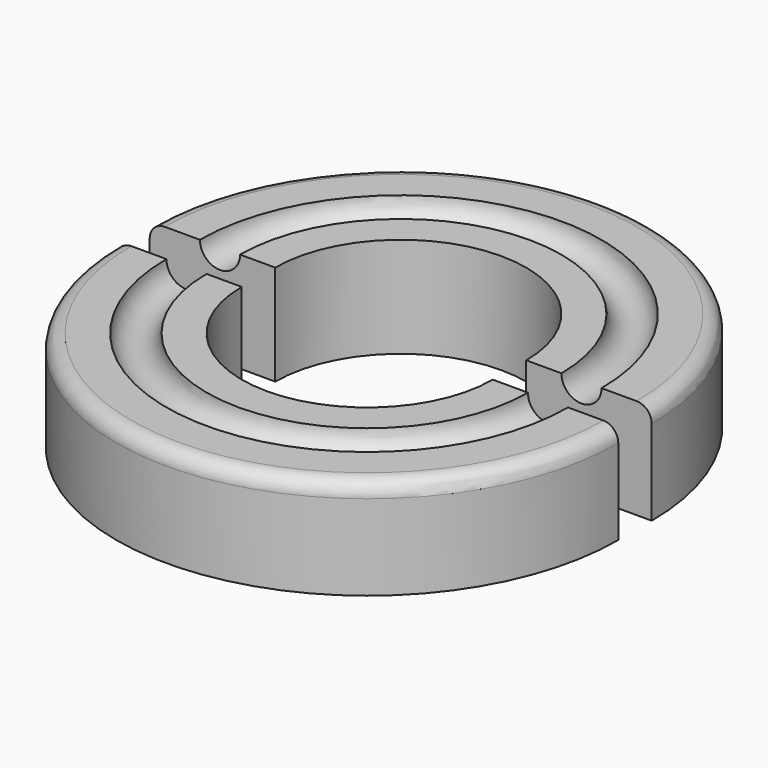
from build123d import *

# Parameters (mm, degrees)
F1_ANGLE = 180


with BuildPart() as f1:
    # F0 (on Front) → F1 (revolve)
    with BuildSketch(Plane.XZ):
        with BuildLine():
            Line((-60, 20.4), (-60, 0))
            Line((-60, 0), (-30, 0))
            Line((-30, 0), (-30, 24))
            Line((-30, 24), (-38.4, 24))
            ThreePointArc((-38.4, 24), (-43.2, 19.2), (-48, 24))
            Line((-48, 24), (-56.4, 24))
            ThreePointArc((-56.4, 24), (-58.945584, 22.945584), (-60, 20.4))
        make_face()
    revolve(axis=Axis((0, 0, 18.039385), (0, 0, 1)), revolution_arc=F1_ANGLE)


with BuildPart() as f2_1:
    # F2: instance of F1
    add(f1.part.mirror(Plane(origin=(45.037681, 0, 11.424834), x_dir=(-1, 0, 0), z_dir=(0, 1, 0))))


with BuildPart() as f1_1:
    # F3: moved
    add(f1.part.moved(Location((0, -10, 0))))


solid = Compound([f2_1.part, f1_1.part])
